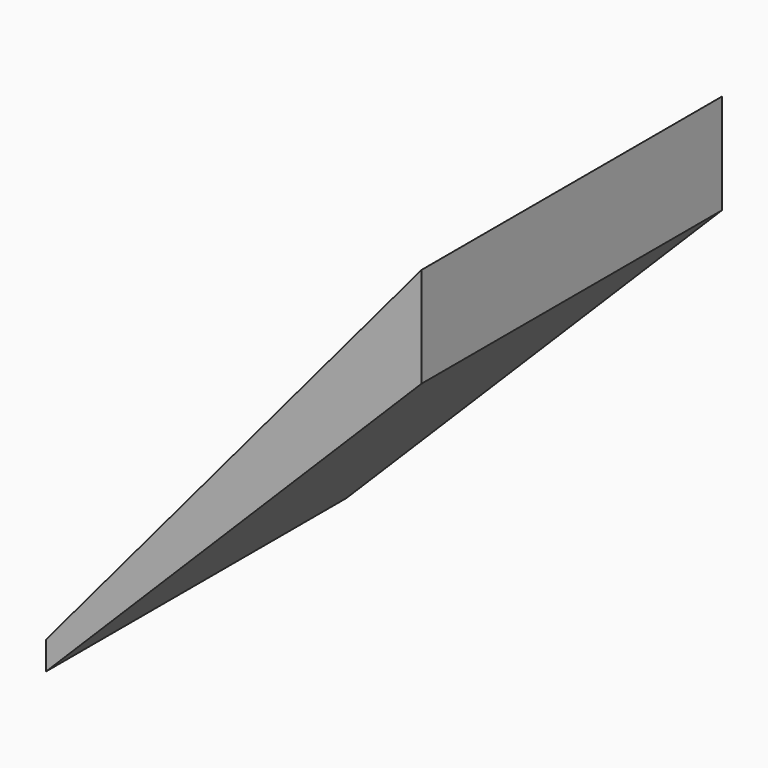
from build123d import *

# Parameters (mm, degrees)
PAD_DEPTH = 10


with BuildPart() as part:
    # Sketch → Pad (new body, symmetric)
    with BuildSketch(Plane.XZ):
        Polygon((0, 26), (0, 27.5), (20, 51.335072), (20, 46), align=None)
    extrude(amount=PAD_DEPTH, both=True)


solid = part.part
